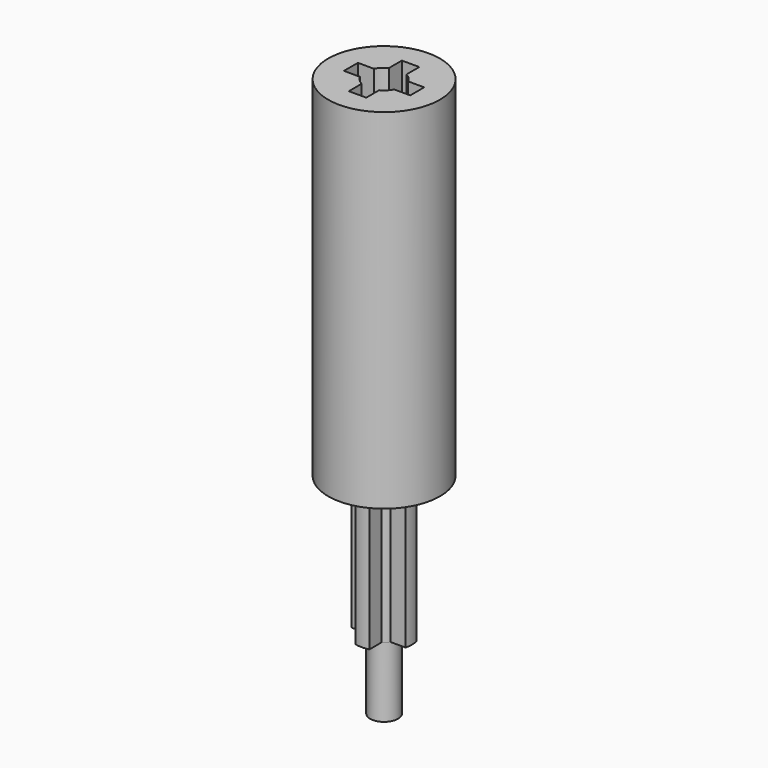
from build123d import *

# Parameters (mm, degrees)
F0_R     = 4
F1_DEPTH = 20
F4_DEPTH = 40
F6_R     = 16
F7_DEPTH = 100


with BuildPart() as f1:
    # F0 (on Top) → F1 (new body)
    with BuildSketch(Plane.XY):
        Circle(F0_R)
    extrude(amount=F1_DEPTH)

    # F3 (on offset) → F4 (join)
    with BuildSketch(Plane.XY.offset(20)):
        with BuildLine():
            ThreePointArc((-3.4641016151, -2), (-4, 0), (-3.4641016151, 2))
            Line((-3.4641016151, 2), (-7.7459666924, 2))
            ThreePointArc((-7.7459666924, 2), (-8, 0), (-7.7459666924, -2))
            Line((-7.7459666924, -2), (-3.4641016151, -2))
        make_face()
        with BuildLine():
            ThreePointArc((3.4641016151, -2), (3.8637033052, -1.0352761804), (4, 0))
            ThreePointArc((4, 0), (3.8637033052, 1.0352761804), (3.4641016151, 2))
            ThreePointArc((3.4641016151, 2), (2.8284271247, 2.8284271247), (2, 3.4641016151))
            ThreePointArc((2, 3.4641016151), (0, 4), (-2, 3.4641016151))
            ThreePointArc((-2, 3.4641016151), (-2.8284271247, 2.8284271247), (-3.4641016151, 2))
            ThreePointArc((-3.4641016151, 2), (-4, 0), (-3.4641016151, -2))
            ThreePointArc((-3.4641016151, -2), (-2.8284271247, -2.8284271247), (-2, -3.4641016151))
            ThreePointArc((-2, -3.4641016151), (0, -4), (2, -3.4641016151))
            ThreePointArc((2, -3.4641016151), (2.8284271247, -2.8284271247), (3.4641016151, -2))
        make_face()
        with BuildLine():
            ThreePointArc((-2, 3.4641016151), (0, 4), (2, 3.4641016151))
            Line((2, 3.4641016151), (2, 7.7459666924))
            ThreePointArc((2, 7.7459666924), (0, 8), (-2, 7.7459666924))
            Line((-2, 7.7459666924), (-2, 3.4641016151))
        make_face()
        with BuildLine():
            ThreePointArc((3.4641016151, 2), (3.8637033052, 1.0352761804), (4, 0))
            ThreePointArc((4, 0), (3.8637033052, -1.0352761804), (3.4641016151, -2))
            Line((3.4641016151, -2), (7.7459666924, -2))
            ThreePointArc((7.7459666924, -2), (8, 0), (7.7459666924, 2))
            Line((7.7459666924, 2), (3.4641016151, 2))
        make_face()
        with BuildLine():
            Line((2, -7.7459666924), (2, -3.4641016151))
            ThreePointArc((2, -3.4641016151), (0, -4), (-2, -3.4641016151))
            Line((-2, -3.4641016151), (-2, -7.7459666924))
            ThreePointArc((-2, -7.7459666924), (0, -8), (2, -7.7459666924))
        make_face()
    extrude(amount=F4_DEPTH)


with BuildPart() as f7:
    # F6 (on offset) → F7 (new body)
    with BuildSketch(Plane.XY.offset(60)):
        Circle(F6_R)
        with BuildLine():
            ThreePointArc((2.5, 4.8989794856), (3.8890872965, 3.8890872965), (4.8989794856, 2.5))
            Line((4.8989794856, 2.5), (9.5, 2.5))
            Line((9.5, 2.5), (9.5, 0))
            Line((9.5, 0), (9.5, -2.5))
            Line((9.5, -2.5), (4.8989794856, -2.5))
            ThreePointArc((4.8989794856, -2.5), (3.8890872965, -3.8890872965), (2.5, -4.8989794856))
            Line((2.5, -4.8989794856), (2.5, -9.5))
            Line((2.5, -9.5), (0, -9.5))
            Line((0, -9.5), (-2.5, -9.5))
            Line((-2.5, -9.5), (-2.5, -4.8989794856))
            ThreePointArc((-2.5, -4.8989794856), (-3.8890872965, -3.8890872965), (-4.8989794856, -2.5))
            Line((-4.8989794856, -2.5), (-9.5, -2.5))
            Line((-9.5, -2.5), (-9.5, 0))
            Line((-9.5, 0), (-9.5, 2.5))
            Line((-9.5, 2.5), (-4.8989794856, 2.5))
            ThreePointArc((-4.8989794856, 2.5), (-3.8890872965, 3.8890872965), (-2.5, 4.8989794856))
            Line((-2.5, 4.8989794856), (-2.5, 9.5))
            Line((-2.5, 9.5), (0, 9.5))
            Line((0, 9.5), (2.5, 9.5))
            Line((2.5, 9.5), (2.5, 4.8989794856))
        make_face(mode=Mode.SUBTRACT)
    extrude(amount=F7_DEPTH)


solid = Compound([f1.part, f7.part])
